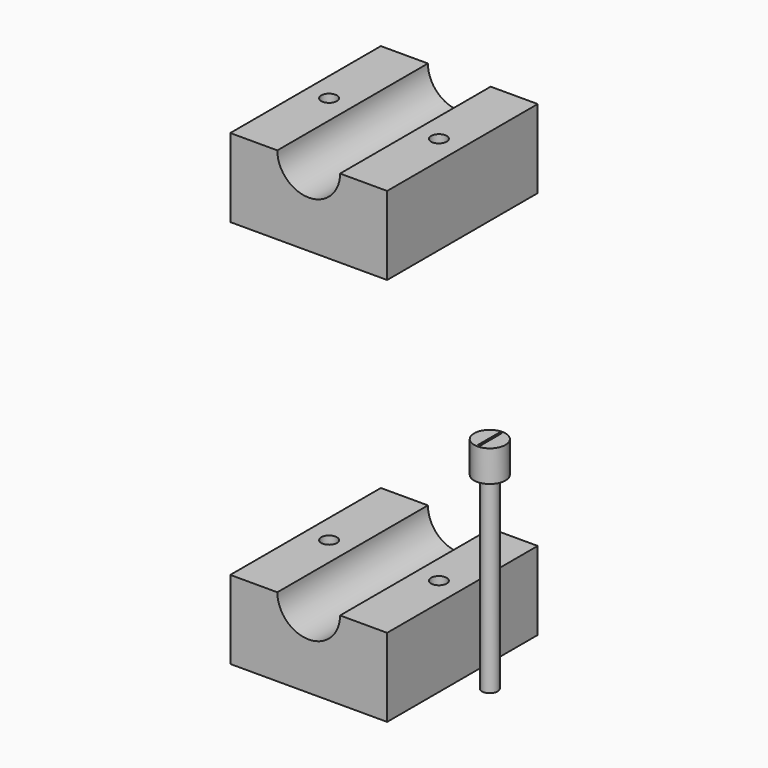
from build123d import *

# Parameters (mm, degrees)
F0_W      = 10
F0_H      = 12
F1_DEPTH  = 5
F3_DEPTH  = 12.001
F4_R      = 0.5
F6_DEPTH  = 5.001
F5_R      = 0.5
F7_DEPTH  = 5.001
F8_R      = 0.49995
F9_DEPTH  = 12
F10_R     = 1
F11_DEPTH = 2
F12_R     = 1
F12_R_2   = 0.5
F13_DEPTH = 1
F15_R     = 1.005
F16_DEPTH = 2
F17_W     = 0.1430329729
F17_H     = 1.7057467485
F18_DEPTH = 0.1


with BuildPart() as f1:
    # F0 (on Top) → F1 (new body)
    with BuildSketch(Plane.XY):
        Rectangle(F0_W, F0_H)
    extrude(amount=F1_DEPTH)

    # F2 (on face) → F3 (cut, through all)
    with BuildSketch(Plane.XZ.offset(6)):
        with BuildLine():
            Line((2, 5), (-2, 5))
            ThreePointArc((-2, 5), (0, 3), (2, 5))
        make_face()
    extrude(amount=-F3_DEPTH, mode=Mode.SUBTRACT)

    # F4 (on face) → F6 (cut, through all)
    with BuildSketch(Plane.XY.offset(5)):
        with Locations((-3.5, 0)):
            Circle(F4_R)
    extrude(amount=-F6_DEPTH, mode=Mode.SUBTRACT)

    # F5 (on face) → F7 (cut, through all)
    with BuildSketch(Plane.XY.offset(5)):
        with Locations((3.5, 0)):
            Circle(F5_R)
    extrude(amount=-F7_DEPTH, mode=Mode.SUBTRACT)


with BuildPart() as f9:
    # F8 (on Top) → F9 (new body)
    with BuildSketch(Plane.XY):
        with Locations((6.7451235441, 0)):
            Circle(F8_R)
    extrude(amount=F9_DEPTH)

    # F10 (on face) → F11 (join)
    with BuildSketch(Plane.XY.offset(12)):
        with Locations((6.7451235441, 0)):
            Circle(F10_R)
    extrude(amount=F11_DEPTH)

    # F17 (on face) → F18 (cut)
    with BuildSketch(Plane.XY.offset(14)):
        with Locations((6.7451235441, 0)):
            Rectangle(F17_W, F17_H)
    extrude(amount=-F18_DEPTH, mode=Mode.SUBTRACT)


with BuildPart() as f13:
    # F12 (on Front) → F13 (new body)
    with BuildSketch(Plane.XZ):
        Circle(F12_R)
        Circle(F12_R_2, mode=Mode.SUBTRACT)
    extrude(amount=F13_DEPTH)


with BuildPart() as f14_1:
    # F14: copy of F1
    add(f1.part.moved(Location((0, 0, 24.8))))


with BuildPart() as f1_1:
    add(f1.part)

    # F15 (on face) → F16 (cut)
    with BuildSketch(Plane(origin=(0, 0, 0), x_dir=(1, 0, 0), z_dir=(0, 0, -1))):
        with Locations((-3.5, 0)):
            Circle(F15_R)
        with Locations((3.5, 0)):
            Circle(F15_R)
    extrude(amount=-F16_DEPTH, mode=Mode.SUBTRACT)


solid = Compound([f9.part, f13.part, f14_1.part, f1_1.part])
